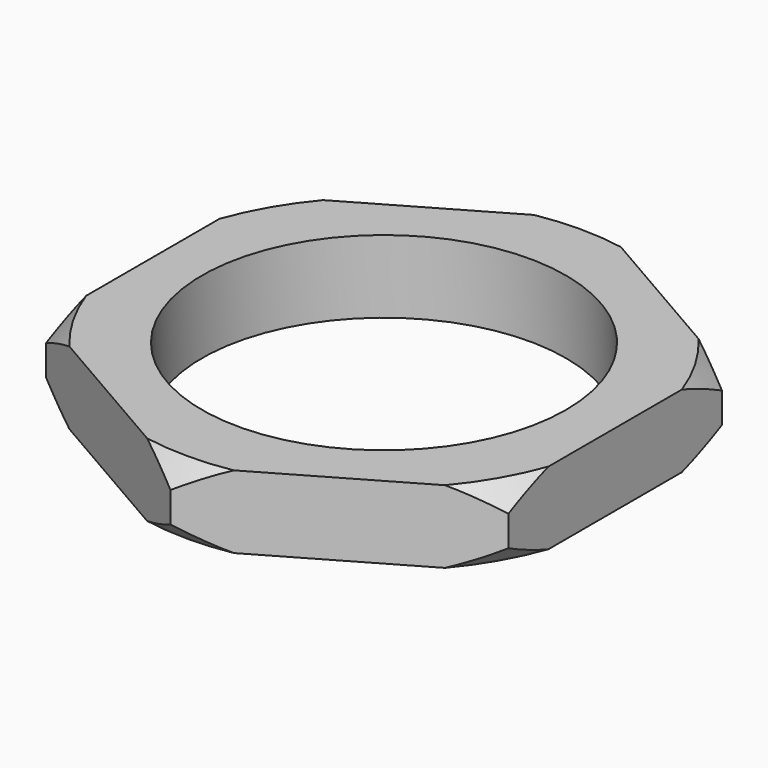
from build123d import *

# Parameters (mm, degrees)
SKETCH018_R          = 7.5
PAD_DEPTH            = 2
CHAMFER_SIZE         = 0.75
CHAMFER001_SIZE      = 0.75
SKETCH019_R          = 8.401279
POCKET015_DEPTH      = 2.001
POCKET015_DEPTH_BACK = 0.001
SKETCH020_R          = 5
POCKET016_DEPTH      = 0.001
POCKET016_DEPTH_BACK = 2.001


with BuildPart() as part:
    # Sketch018 → Pad (new body)
    with BuildSketch(Plane.XY):
        Circle(SKETCH018_R)
    extrude(amount=PAD_DEPTH)

    # Chamfer
    chamfer_edges = [part.edges().sort_by_distance(p)[0] for p in [
        (-7.5, 0, 2),
    ]]
    chamfer(chamfer_edges, length=CHAMFER_SIZE)

    # Chamfer001
    chamfer001_edges = [part.edges().sort_by_distance(p)[0] for p in [
        (-7.5, 0, 0),
    ]]
    chamfer(chamfer001_edges, length=CHAMFER001_SIZE)

    # Sketch019 (on Face3 of Pad) → Pocket015 (cut, two sides)
    with BuildSketch(Plane.XY.offset(2)) as pocket015_sk:
        Circle(SKETCH019_R)
        Polygon((0, 7.332348), (-6.35, 3.666174), (-6.35, -3.666174), (0, -7.332348), (6.35, -3.666174), (6.35, 3.666174), align=None, mode=Mode.SUBTRACT)
    extrude(amount=-POCKET015_DEPTH, mode=Mode.SUBTRACT)
    extrude(pocket015_sk.sketch, amount=POCKET015_DEPTH_BACK, mode=Mode.SUBTRACT)

    # Sketch020 → Pocket016 (cut, two sides)
    with BuildSketch(Plane.XY) as pocket016_sk:
        Circle(SKETCH020_R)
    extrude(amount=-POCKET016_DEPTH, mode=Mode.SUBTRACT)
    extrude(pocket016_sk.sketch, amount=POCKET016_DEPTH_BACK, mode=Mode.SUBTRACT)


solid = part.part
